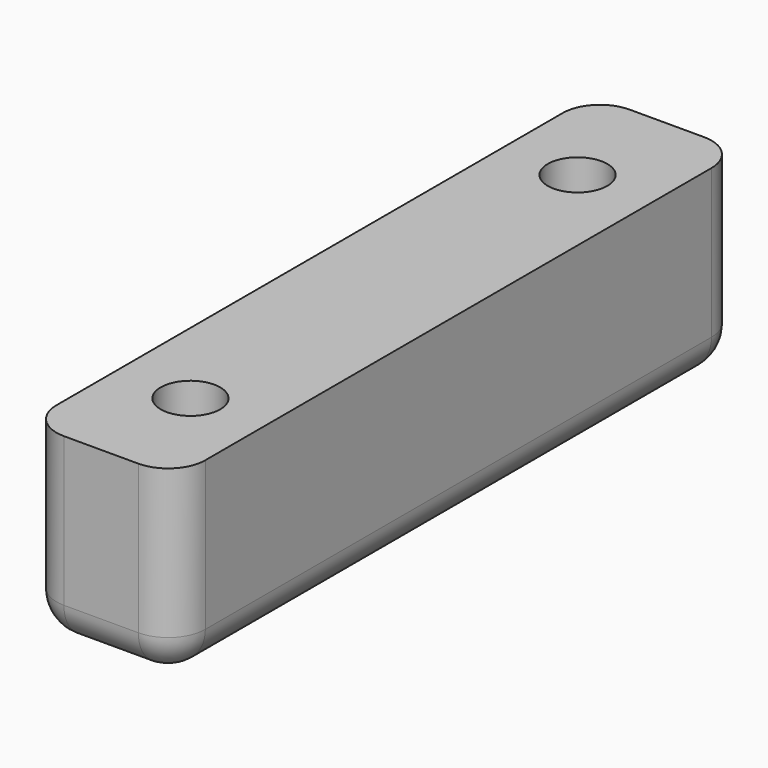
from build123d import *

# Parameters (mm, degrees)
CYLINDER051_R          = 0.8
CYLINDER051_DEPTH      = 10
CYLINDER050_R          = 0.8
CYLINDER050_DEPTH      = 10
CYLINDER048_R          = 0.75
CYLINDER048_DEPTH      = 10
CYLINDER047_R          = 0.75
CYLINDER047_DEPTH      = 10
BOX020_W               = 4
BOX020_H               = 19
BOX020_DEPTH           = 5
FILLET008_R            = 1
FILLET009_R            = 1
FILLET010_R            = 1
FILLET011_R            = 1
CUT066_PLACEMENT_ANGLE = 180


with BuildPart() as cilindro051:
    # Cylinder051 → Cylinder051 (new body)
    with BuildSketch(Plane(origin=(11, -17, -17), x_dir=(1, 0, 0), z_dir=(0, 0, 1))):
        Circle(CYLINDER051_R)
    extrude(amount=CYLINDER051_DEPTH)


with BuildPart() as cilindro050:
    # Cylinder050 → Cylinder050 (new body)
    with BuildSketch(Plane(origin=(11, -4, -17), x_dir=(1, 0, 0), z_dir=(0, 0, 1))):
        Circle(CYLINDER050_R)
    extrude(amount=CYLINDER050_DEPTH)


with BuildPart() as cilindro048:
    # Cylinder048 → Cylinder048 (new body)
    with BuildSketch(Plane(origin=(-39, 66, 48), x_dir=(1, 0, 0), z_dir=(0, 0, 1))):
        Circle(CYLINDER048_R)
    extrude(amount=CYLINDER048_DEPTH)


with BuildPart() as cilindro047:
    # Cylinder047 → Cylinder047 (new body)
    with BuildSketch(Plane(origin=(-39, 53, 48), x_dir=(1, 0, 0), z_dir=(0, 0, 1))):
        Circle(CYLINDER047_R)
    extrude(amount=CYLINDER047_DEPTH)


with BuildPart() as cut070:
    # Box020 → Box020 (new body)
    with BuildSketch(Plane(origin=(-2, 50, 45), x_dir=(1, 0, 0), z_dir=(0, 0, 1))):
        with Locations((2, 9.5)):
            Rectangle(BOX020_W, BOX020_H)
    extrude(amount=BOX020_DEPTH)

    # Fillet008
    fillet008_edges = [cut070.edges().sort_by_distance(p)[0] for p in [
        (2, 59.5, 50),
    ]]
    fillet(fillet008_edges, radius=FILLET008_R)

    # Fillet009
    fillet009_edges = [cut070.edges().sort_by_distance(p)[0] for p in [
        (-2, 59.5, 50),
    ]]
    fillet(fillet009_edges, radius=FILLET009_R)

    # Fillet010
    fillet010_edges = [cut070.edges().sort_by_distance(p)[0] for p in [
        (0, 69, 50),
    ]]
    fillet(fillet010_edges, radius=FILLET010_R)

    # Fillet011
    fillet011_edges = [cut070.edges().sort_by_distance(p)[0] for p in [
        (0, 50, 50),
    ]]
    fillet(fillet011_edges, radius=FILLET011_R)


with BuildPart() as cut070_1:
    # Fillet011 placement: moved
    add(cut070.part.moved(Location((-39, 0, 0))))

    # Cut065: cut Cilindro047
    add(cilindro047.part, mode=Mode.SUBTRACT)

    # Cut066: cut Cilindro048
    add(cilindro048.part, mode=Mode.SUBTRACT)


with BuildPart() as cut070_2:
    # Cut066 placement: moved
    add(cut070_1.part.moved(Location((-28, -70, 35))).rotate(Axis((-28, -70, 35), (0, 1, 0)), CUT066_PLACEMENT_ANGLE))

    # Cut069: cut Cilindro050
    add(cilindro050.part, mode=Mode.SUBTRACT)

    # Cut070: cut Cilindro051
    add(cilindro051.part, mode=Mode.SUBTRACT)


with BuildPart() as cut070_3:
    # Cut070 placement: moved
    add(cut070_2.part.moved(Location((-23, -1, 0))))


solid = cut070_3.part
